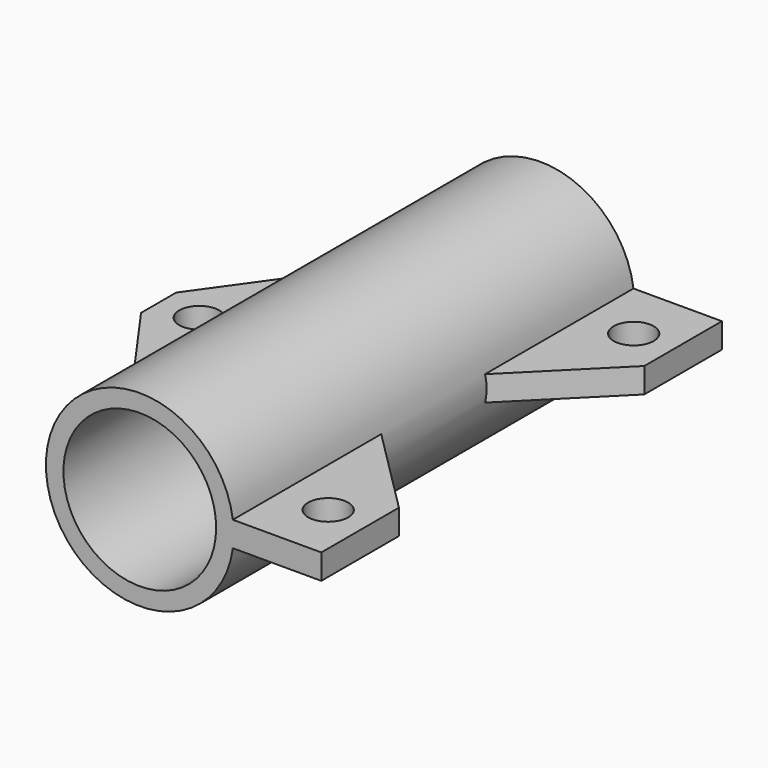
from build123d import *

# Parameters (mm, degrees)
F0_R     = 7.5
F0_R_2   = 6.1
F1_DEPTH = 40
F2_R     = 1.6
F3_DEPTH = 1


with BuildPart() as f1:
    # F0 (on Front) → F1 (new body)
    with BuildSketch(Plane.XZ):
        Circle(F0_R)
        Circle(F0_R_2, mode=Mode.SUBTRACT)
    extrude(amount=F1_DEPTH)

    # F2 (on Top) → F3 (join, symmetric)
    with BuildSketch(Plane.XY):
        Polygon((14.5, 0), (6.5, 0), (6.5, -15.75), (14.5, -7.75), align=None)
        with Locations((11.25, -4.75)):
            Circle(F2_R, mode=Mode.SUBTRACT)
        Polygon((6.5, -24.25), (6.5, -40), (14.5, -40), (14.5, -32.25), align=None)
        with Locations((11.25, -35.25)):
            Circle(F2_R, mode=Mode.SUBTRACT)
        Polygon((-6.5, -33), (-6.5, -7), (-14.5, -18.25), (-14.5, -21.75), align=None)
        with Locations((-11.25, -20)):
            Circle(F2_R, mode=Mode.SUBTRACT)
    extrude(amount=F3_DEPTH, both=True)


solid = f1.part
